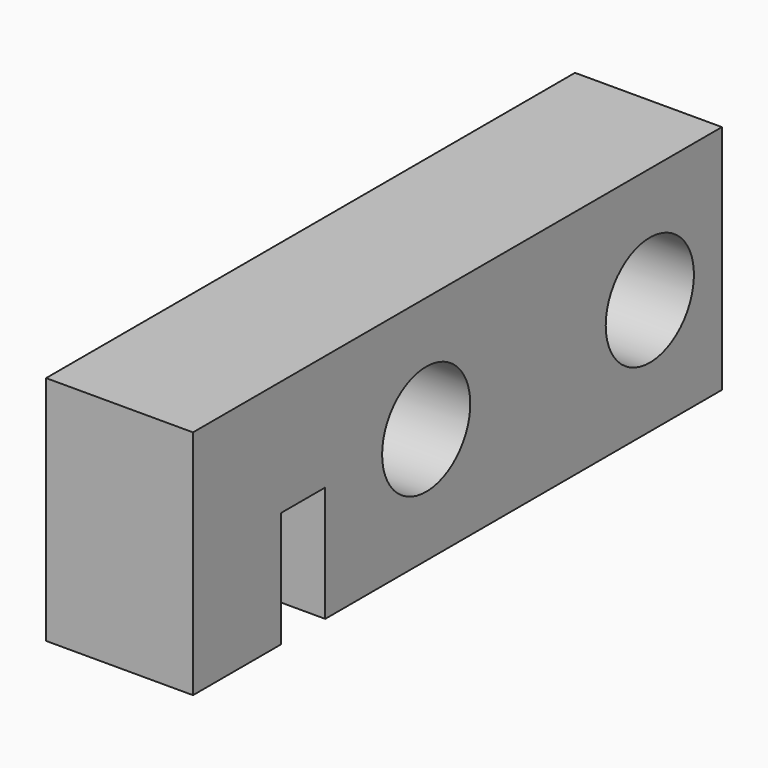
from build123d import *

# Parameters (mm, degrees)
F0_W     = 4
F0_H     = 6.3
F1_DEPTH = 18
F2_W     = 1.5
F2_H     = 3.15
F3_DEPTH = 25
F4_R     = 1.5
F5_DEPTH = 25


with BuildPart() as f1:
    # F0 (on Front) → F1 (new body)
    with BuildSketch(Plane.XZ):
        Rectangle(F0_W, F0_H)
    extrude(amount=F1_DEPTH)

    # F2 (on face) → F3 (cut)
    with BuildSketch(Plane(origin=(-2, 0, 0), x_dir=(0, -1, 0), z_dir=(-1, 0, 0))):
        with Locations((14.25, -1.575)):
            Rectangle(F2_W, F2_H)
    extrude(amount=-F3_DEPTH, mode=Mode.SUBTRACT)

    # F4 (on face) → F5 (cut)
    with BuildSketch(Plane(origin=(-2, 0, 0), x_dir=(0, -1, 0), z_dir=(-1, 0, 0))):
        with Locations((2.45419, 0)):
            Circle(F4_R)
        with Locations((10.06419, 0)):
            Circle(F4_R)
    extrude(amount=-F5_DEPTH, mode=Mode.SUBTRACT)


solid = f1.part
